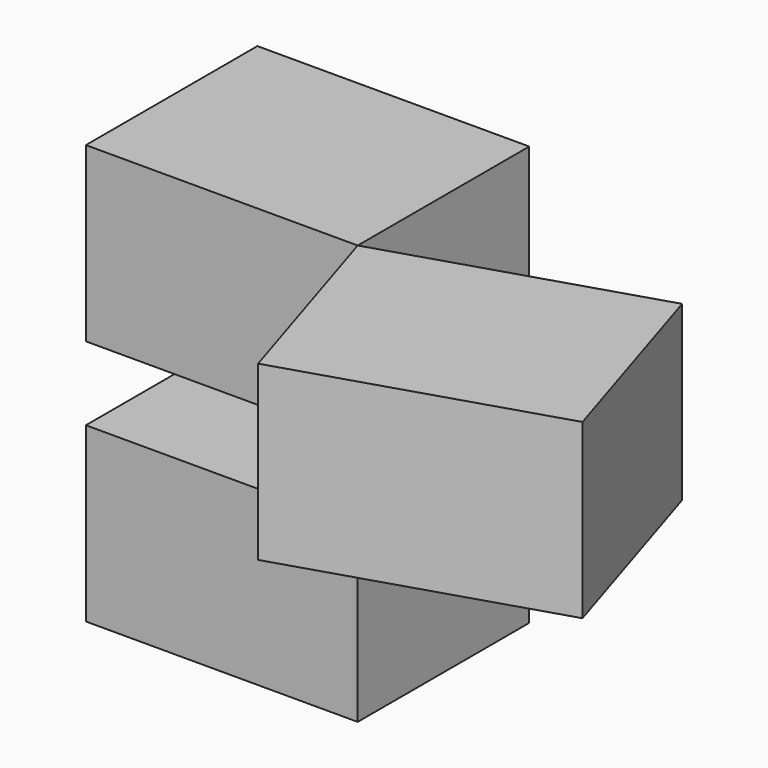
from build123d import *

# Parameters (mm, degrees)
F0_W     = 100.2297475934
F0_H     = 79.0484845638
F1_DEPTH = 63.7086648494
F4_ANGLE = 162.6195504771


with BuildPart() as f1:
    # F0 (on Top) → F1 (new body)
    with BuildSketch(Plane.XY):
        with Locations((4.2915157974, -2.4052113295)):
            Rectangle(F0_W, F0_H)
    extrude(amount=F1_DEPTH)


with BuildPart() as f2_1:
    # F2: copy of F1
    add(f1.part)


with BuildPart() as f1_1:
    # F3: moved
    add(f1.part.moved(Location((0, 0, 90.9344404936))))


with BuildPart() as f4_1:
    # F4: copy of F1
    add(f1_1.part.rotate(Axis((54.4063895941, -41.9294536114, 31.8543324247), (0, 0, -1)), F4_ANGLE))


solid = Compound([f2_1.part, f1_1.part, f4_1.part])
